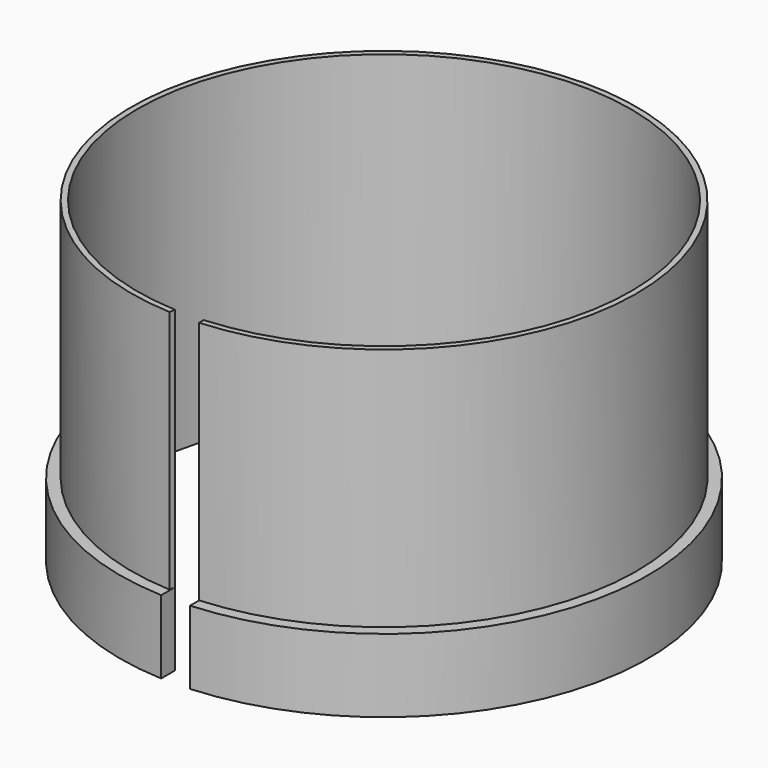
from build123d import *

# Parameters (mm, degrees)
F1_DEPTH = 12.7
F2_DEPTH = 3.81


with BuildPart() as f1:
    # F0 (on Top) → F1 (new body)
    with BuildSketch(Plane.XY):
        with BuildLine():
            ThreePointArc((-0.619034, -12.810052), (-0.124602, 12.824395), (0.867818, -12.795605))
            Line((0.867818, -12.795605), (0.867818, -13.096279))
            ThreePointArc((0.867818, -13.096279), (-0.104246, 13.124586), (-0.659679, -13.108411))
            Line((-0.659679, -13.108411), (-0.619034, -12.810052))
        make_face()
    extrude(amount=F1_DEPTH)

    # F0 (on Top) → F2 (join)
    with BuildSketch(Plane.XY):
        with BuildLine():
            Line((0.867818, -13.096279), (0.867818, -12.795605))
            Line((0.867818, -12.795605), (0.826493, -13.098952))
            ThreePointArc((0.826493, -13.098952), (0.847157, -13.097631), (0.867818, -13.096279))
        make_face()
        with BuildLine():
            ThreePointArc((-0.619034, -12.810052), (-0.124602, 12.824395), (0.867818, -12.795605))
            Line((0.867818, -12.795605), (0.867818, -13.096279))
            ThreePointArc((0.867818, -13.096279), (-0.104246, 13.124586), (-0.659679, -13.108411))
            Line((-0.659679, -13.108411), (-0.619034, -12.810052))
        make_face()
        with BuildLine():
            Line((-0.619034, -13.702024), (-0.619034, -12.810052))
            Line((-0.619034, -12.810052), (-0.659679, -13.108411))
            ThreePointArc((-0.659679, -13.108411), (-0.104246, 13.124586), (0.867818, -13.096279))
            Line((0.867818, -13.096279), (0.867818, -13.688519))
            ThreePointArc((0.867818, -13.688519), (-0.124575, 13.715434), (-0.619034, -13.702024))
        make_face()
    extrude(amount=-F2_DEPTH)


solid = f1.part
